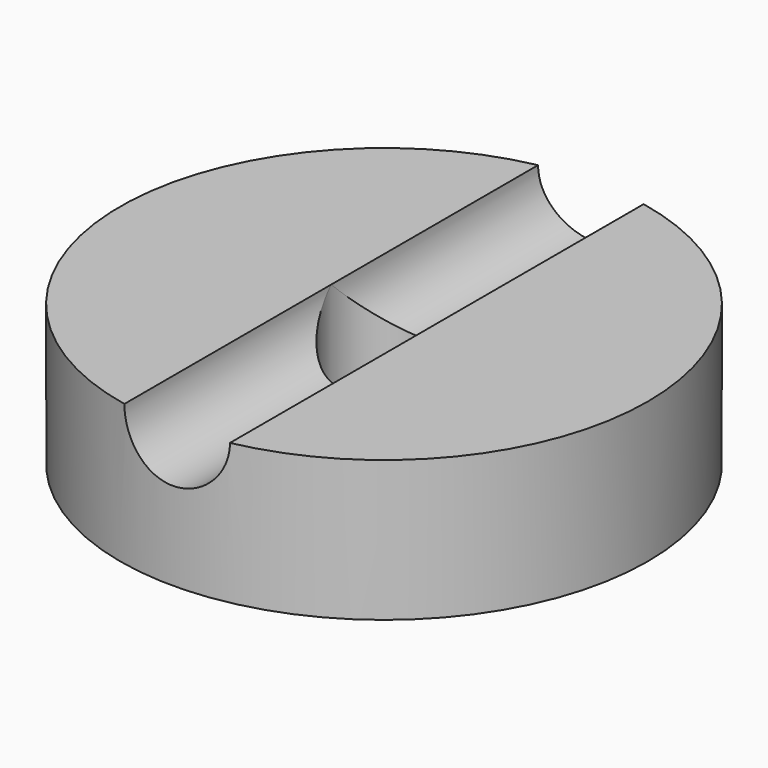
from build123d import *

# Parameters (mm, degrees)
F3_R     = 1.5
F4_DEPTH = 12.5


with BuildPart() as f2:
    # F0 (on Front) → F2 (revolve)
    with BuildSketch(Plane.XZ):
        Polygon((7.5, 0), (1.5, 0), (1.5, -6), (3.175, -6), (3.175, -5), (4.175, -5), (4.175, -4), (7.5, -4), align=None)
    revolve(axis=Axis((0, 0, -5.151412), (0, 0, -1)))

    # F3 (on Front) → F4 (cut, symmetric)
    with BuildSketch(Plane.XZ):
        Circle(F3_R)
    extrude(amount=F4_DEPTH, both=True, mode=Mode.SUBTRACT)


solid = f2.part
